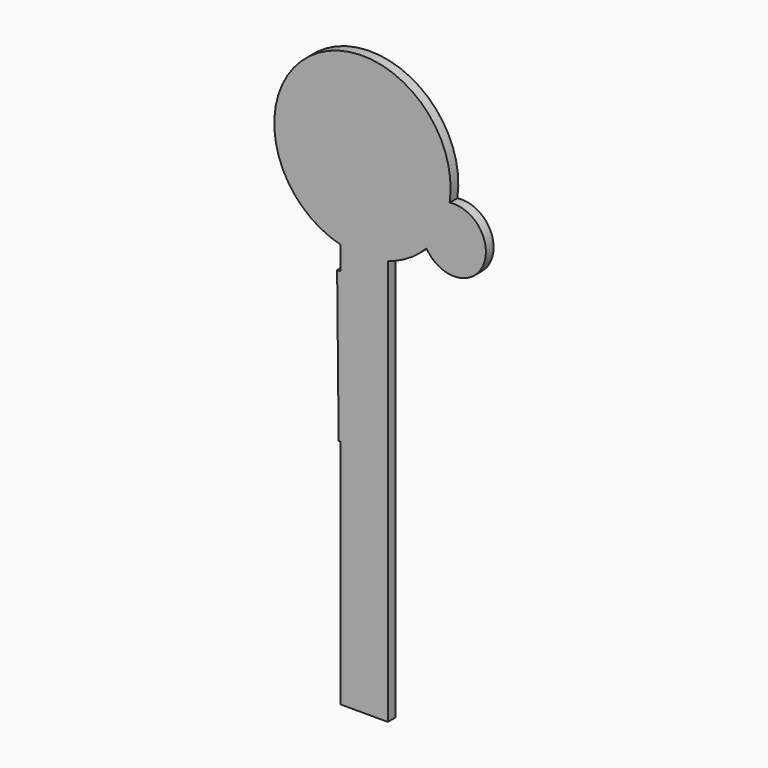
from build123d import *

# Parameters (mm, degrees)
F1_DEPTH = 3.556


with BuildPart() as f1:
    # F0 (on Front) → F1 (new body)
    with BuildSketch(Plane.XZ):
        with BuildLine():
            Line((-5.826374, -156.523644), (-5.826374, -7.032426))
            ThreePointArc((-5.826374, -7.032426), (1.871411, -3.572466), (8.417938, 1.753902))
            ThreePointArc((8.417938, 1.753902), (29.123373, 2.547832), (16.949844, 19.315377))
            ThreePointArc((16.949844, 19.315377), (-33.159966, 51.122593), (-23.235221, -7.393999))
            Line((-23.235221, -7.393999), (-23.235221, -16.009105))
            Line((-23.235221, -16.009105), (-24.5104, -16.009105))
            Line((-24.5104, -16.009105), (-23.943633, -71.23325))
            Line((-23.943633, -71.23325), (-23.235221, -71.23325))
            Line((-23.235221, -71.23325), (-23.235221, -140.258765))
            Line((-23.235221, -140.258765), (-23.235221, -156.523644))
            Line((-23.235221, -156.523644), (-5.826374, -156.523644))
        make_face()
    extrude(amount=F1_DEPTH)


solid = f1.part
